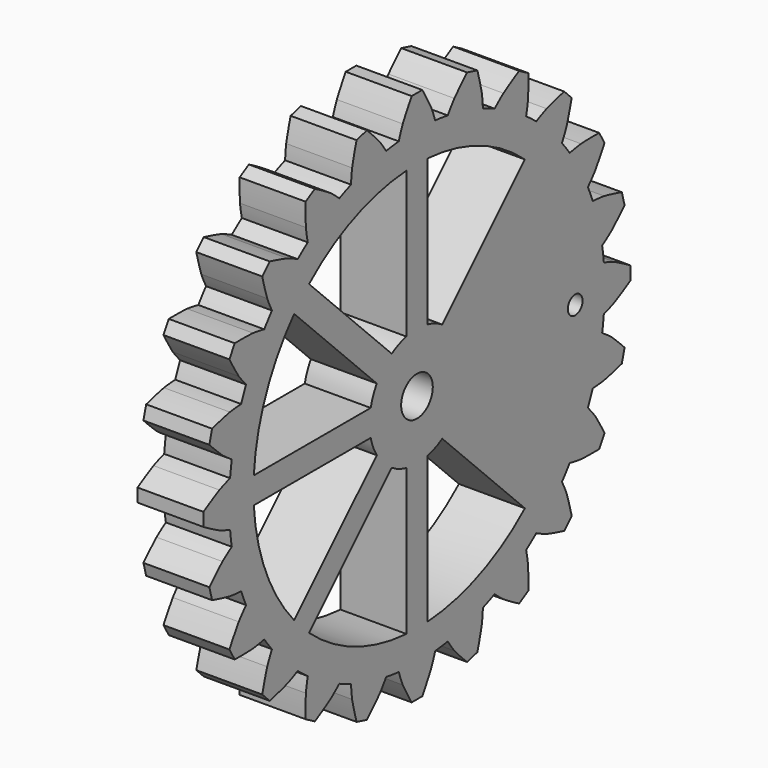
from build123d import *

# Parameters (mm, degrees)
F0_R     = 3
F0_R_2   = 1.4
F1_DEPTH = 10


with BuildPart() as f1:
    # F0 (on Right) → F1 (new body)
    with BuildSketch(Plane.YZ):
        with BuildLine():
            ThreePointArc((-2.697084, 37.459986), (-3.094881, 36.452951), (-3.4485, 35.429568))
            ThreePointArc((-3.4485, 35.429568), (-4.646341, 35.292463), (-5.838852, 35.114872))
            ThreePointArc((-5.838852, 35.114872), (-6.445293, 36.011861), (-7.090175, 36.881625))
            ThreePointArc((-7.090175, 36.881625), (-8.27666, 38.143224), (-9.505046, 39.364064))
            Line((-9.505046, 39.364064), (-11.450421, 38.842802))
            ThreePointArc((-11.450421, 38.842802), (-11.903815, 37.171331), (-12.300541, 35.485511))
            ThreePointArc((-12.300541, 35.485511), (-12.424143, 34.409833), (-12.500842, 33.329797))
            ThreePointArc((-12.500842, 33.329797), (-13.622382, 32.88734), (-14.728295, 32.407156))
            ThreePointArc((-14.728295, 32.407156), (-15.54623, 33.116622), (-16.39425, 33.789842))
            ThreePointArc((-16.39425, 33.789842), (-17.866832, 34.701368), (-19.369339, 35.562679))
            Line((-19.369339, 35.562679), (-21.113514, 34.555679))
            ThreePointArc((-21.113514, 34.555679), (-21.11885, 32.823815), (-21.065736, 31.092757))
            ThreePointArc((-21.065736, 31.092757), (-20.906721, 30.021742), (-20.701272, 28.958656))
            ThreePointArc((-20.701272, 28.958656), (-21.670081, 28.240999), (-22.61403, 27.490945))
            ThreePointArc((-22.61403, 27.490945), (-23.587718, 27.96454), (-24.581084, 28.395337))
            ThreePointArc((-24.581084, 28.395337), (-26.23941, 28.894671), (-27.913643, 29.337756))
            Line((-27.913643, 29.337756), (-29.337756, 27.913643))
            ThreePointArc((-29.337756, 27.913643), (-28.894671, 26.23941), (-28.395337, 24.581084))
            ThreePointArc((-28.395337, 24.581084), (-27.96454, 23.587718), (-27.490945, 22.61403))
            ThreePointArc((-27.490945, 22.61403), (-28.240999, 21.670081), (-28.958656, 20.701272))
            ThreePointArc((-28.958656, 20.701272), (-30.021742, 20.906721), (-31.092757, 21.065736))
            ThreePointArc((-31.092757, 21.065736), (-32.823815, 21.11885), (-34.555679, 21.113514))
            Line((-34.555679, 21.113514), (-35.562679, 19.369339))
            ThreePointArc((-35.562679, 19.369339), (-34.701368, 17.866832), (-33.789842, 16.39425))
            ThreePointArc((-33.789842, 16.39425), (-33.116622, 15.54623), (-32.407156, 14.728295))
            ThreePointArc((-32.407156, 14.728295), (-32.88734, 13.622382), (-33.329797, 12.500842))
            ThreePointArc((-33.329797, 12.500842), (-34.409833, 12.424143), (-35.485511, 12.300541))
            ThreePointArc((-35.485511, 12.300541), (-37.171331, 11.903815), (-38.842802, 11.450421))
            Line((-38.842802, 11.450421), (-39.364064, 9.505046))
            ThreePointArc((-39.364064, 9.505046), (-38.143224, 8.27666), (-36.881625, 7.090175))
            ThreePointArc((-36.881625, 7.090175), (-36.011861, 6.445293), (-35.114872, 5.838852))
            ThreePointArc((-35.114872, 5.838852), (-35.292463, 4.646341), (-35.429568, 3.4485))
            ThreePointArc((-35.429568, 3.4485), (-36.452951, 3.094881), (-37.459986, 2.697084))
            ThreePointArc((-37.459986, 2.697084), (-38.985683, 1.877553), (-40.482852, 1.007))
            Line((-40.482852, 1.007), (-40.482852, -1.007))
            ThreePointArc((-40.482852, -1.007), (-38.985683, -1.877553), (-37.459986, -2.697084))
            ThreePointArc((-37.459986, -2.697084), (-36.452951, -3.094881), (-35.429568, -3.4485))
            ThreePointArc((-35.429568, -3.4485), (-35.292463, -4.646341), (-35.114872, -5.838852))
            ThreePointArc((-35.114872, -5.838852), (-36.011861, -6.445293), (-36.881625, -7.090175))
            ThreePointArc((-36.881625, -7.090175), (-38.143224, -8.27666), (-39.364064, -9.505046))
            Line((-39.364064, -9.505046), (-38.842802, -11.450421))
            ThreePointArc((-38.842802, -11.450421), (-37.171331, -11.903815), (-35.485511, -12.300541))
            ThreePointArc((-35.485511, -12.300541), (-34.409833, -12.424143), (-33.329797, -12.500842))
            ThreePointArc((-33.329797, -12.500842), (-32.88734, -13.622382), (-32.407156, -14.728295))
            ThreePointArc((-32.407156, -14.728295), (-33.116622, -15.54623), (-33.789842, -16.39425))
            ThreePointArc((-33.789842, -16.39425), (-34.701368, -17.866832), (-35.562679, -19.369339))
            Line((-35.562679, -19.369339), (-34.555679, -21.113514))
            ThreePointArc((-34.555679, -21.113514), (-32.823815, -21.11885), (-31.092757, -21.065736))
            ThreePointArc((-31.092757, -21.065736), (-30.021742, -20.906721), (-28.958656, -20.701272))
            ThreePointArc((-28.958656, -20.701272), (-28.240999, -21.670081), (-27.490945, -22.61403))
            ThreePointArc((-27.490945, -22.61403), (-27.96454, -23.587718), (-28.395337, -24.581084))
            ThreePointArc((-28.395337, -24.581084), (-28.894671, -26.23941), (-29.337756, -27.913643))
            Line((-29.337756, -27.913643), (-27.913643, -29.337756))
            ThreePointArc((-27.913643, -29.337756), (-26.23941, -28.894671), (-24.581084, -28.395337))
            ThreePointArc((-24.581084, -28.395337), (-23.587718, -27.96454), (-22.61403, -27.490945))
            ThreePointArc((-22.61403, -27.490945), (-21.670081, -28.240999), (-20.701272, -28.958656))
            ThreePointArc((-20.701272, -28.958656), (-20.906721, -30.021742), (-21.065736, -31.092757))
            ThreePointArc((-21.065736, -31.092757), (-21.11885, -32.823815), (-21.113514, -34.555679))
            Line((-21.113514, -34.555679), (-19.369339, -35.562679))
            ThreePointArc((-19.369339, -35.562679), (-17.866832, -34.701368), (-16.39425, -33.789842))
            ThreePointArc((-16.39425, -33.789842), (-15.54623, -33.116622), (-14.728295, -32.407156))
            ThreePointArc((-14.728295, -32.407156), (-13.622382, -32.88734), (-12.500842, -33.329797))
            ThreePointArc((-12.500842, -33.329797), (-12.424143, -34.409833), (-12.300541, -35.485511))
            ThreePointArc((-12.300541, -35.485511), (-11.903815, -37.171331), (-11.450421, -38.842802))
            Line((-11.450421, -38.842802), (-9.505046, -39.364064))
            ThreePointArc((-9.505046, -39.364064), (-8.27666, -38.143224), (-7.090175, -36.881625))
            ThreePointArc((-7.090175, -36.881625), (-6.445293, -36.011861), (-5.838852, -35.114872))
            ThreePointArc((-5.838852, -35.114872), (-4.646341, -35.292463), (-3.4485, -35.429568))
            ThreePointArc((-3.4485, -35.429568), (-3.094881, -36.452951), (-2.697084, -37.459986))
            ThreePointArc((-2.697084, -37.459986), (-1.877553, -38.985683), (-1.007, -40.482852))
            Line((-1.007, -40.482852), (1.007, -40.482852))
            ThreePointArc((1.007, -40.482852), (1.877553, -38.985683), (2.697084, -37.459986))
            ThreePointArc((2.697084, -37.459986), (3.094881, -36.452951), (3.4485, -35.429568))
            ThreePointArc((3.4485, -35.429568), (4.646341, -35.292463), (5.838852, -35.114872))
            ThreePointArc((5.838852, -35.114872), (6.445293, -36.011861), (7.090175, -36.881625))
            ThreePointArc((7.090175, -36.881625), (8.27666, -38.143224), (9.505046, -39.364064))
            Line((9.505046, -39.364064), (11.450421, -38.842802))
            ThreePointArc((11.450421, -38.842802), (11.903815, -37.171331), (12.300541, -35.485511))
            ThreePointArc((12.300541, -35.485511), (12.424143, -34.409833), (12.500842, -33.329797))
            ThreePointArc((12.500842, -33.329797), (13.622382, -32.88734), (14.728295, -32.407156))
            ThreePointArc((14.728295, -32.407156), (15.54623, -33.116622), (16.39425, -33.789842))
            ThreePointArc((16.39425, -33.789842), (17.866832, -34.701368), (19.369339, -35.562679))
            Line((19.369339, -35.562679), (21.113514, -34.555679))
            ThreePointArc((21.113514, -34.555679), (21.11885, -32.823815), (21.065736, -31.092757))
            ThreePointArc((21.065736, -31.092757), (20.906721, -30.021742), (20.701272, -28.958656))
            ThreePointArc((20.701272, -28.958656), (21.670081, -28.240999), (22.61403, -27.490945))
            ThreePointArc((22.61403, -27.490945), (23.587718, -27.96454), (24.581084, -28.395337))
            ThreePointArc((24.581084, -28.395337), (26.23941, -28.894671), (27.913643, -29.337756))
            Line((27.913643, -29.337756), (29.337756, -27.913643))
            ThreePointArc((29.337756, -27.913643), (28.894671, -26.23941), (28.395337, -24.581084))
            ThreePointArc((28.395337, -24.581084), (27.96454, -23.587718), (27.490945, -22.61403))
            ThreePointArc((27.490945, -22.61403), (28.240999, -21.670081), (28.958656, -20.701272))
            ThreePointArc((28.958656, -20.701272), (30.021742, -20.906721), (31.092757, -21.065736))
            ThreePointArc((31.092757, -21.065736), (32.823815, -21.11885), (34.555679, -21.113514))
            Line((34.555679, -21.113514), (35.562679, -19.369339))
            ThreePointArc((35.562679, -19.369339), (34.701368, -17.866832), (33.789842, -16.39425))
            ThreePointArc((33.789842, -16.39425), (33.116622, -15.54623), (32.407156, -14.728295))
            ThreePointArc((32.407156, -14.728295), (32.88734, -13.622382), (33.329797, -12.500842))
            ThreePointArc((33.329797, -12.500842), (34.409833, -12.424143), (35.485511, -12.300541))
            ThreePointArc((35.485511, -12.300541), (37.171331, -11.903815), (38.842802, -11.450421))
            Line((38.842802, -11.450421), (39.364064, -9.505046))
            ThreePointArc((39.364064, -9.505046), (38.143224, -8.27666), (36.881625, -7.090175))
            ThreePointArc((36.881625, -7.090175), (36.011861, -6.445293), (35.114872, -5.838852))
            ThreePointArc((35.114872, -5.838852), (35.292463, -4.646341), (35.429568, -3.4485))
            ThreePointArc((35.429568, -3.4485), (36.452951, -3.094881), (37.459986, -2.697084))
            ThreePointArc((37.459986, -2.697084), (38.985683, -1.877553), (40.482852, -1.007))
            Line((40.482852, -1.007), (40.482852, 1.007))
            ThreePointArc((40.482852, 1.007), (38.985683, 1.877553), (37.459986, 2.697084))
            ThreePointArc((37.459986, 2.697084), (36.452951, 3.094881), (35.429568, 3.4485))
            ThreePointArc((35.429568, 3.4485), (35.292463, 4.646341), (35.114872, 5.838852))
            ThreePointArc((35.114872, 5.838852), (36.011861, 6.445293), (36.881625, 7.090175))
            ThreePointArc((36.881625, 7.090175), (38.143224, 8.27666), (39.364064, 9.505046))
            Line((39.364064, 9.505046), (38.842802, 11.450421))
            ThreePointArc((38.842802, 11.450421), (37.171331, 11.903815), (35.485511, 12.300541))
            ThreePointArc((35.485511, 12.300541), (34.409833, 12.424143), (33.329797, 12.500842))
            ThreePointArc((33.329797, 12.500842), (32.88734, 13.622382), (32.407156, 14.728295))
            ThreePointArc((32.407156, 14.728295), (33.116622, 15.54623), (33.789842, 16.39425))
            ThreePointArc((33.789842, 16.39425), (34.701368, 17.866832), (35.562679, 19.369339))
            Line((35.562679, 19.369339), (34.555679, 21.113514))
            ThreePointArc((34.555679, 21.113514), (32.823815, 21.11885), (31.092757, 21.065736))
            ThreePointArc((31.092757, 21.065736), (30.021742, 20.906721), (28.958656, 20.701272))
            ThreePointArc((28.958656, 20.701272), (28.240999, 21.670081), (27.490945, 22.61403))
            ThreePointArc((27.490945, 22.61403), (27.96454, 23.587718), (28.395337, 24.581084))
            ThreePointArc((28.395337, 24.581084), (28.894671, 26.23941), (29.337756, 27.913643))
            Line((29.337756, 27.913643), (27.913643, 29.337756))
            ThreePointArc((27.913643, 29.337756), (26.23941, 28.894671), (24.581084, 28.395337))
            ThreePointArc((24.581084, 28.395337), (23.587718, 27.96454), (22.61403, 27.490945))
            ThreePointArc((22.61403, 27.490945), (21.670081, 28.240999), (20.701272, 28.958656))
            ThreePointArc((20.701272, 28.958656), (20.906721, 30.021742), (21.065736, 31.092757))
            ThreePointArc((21.065736, 31.092757), (21.11885, 32.823815), (21.113514, 34.555679))
            Line((21.113514, 34.555679), (19.369339, 35.562679))
            ThreePointArc((19.369339, 35.562679), (17.866832, 34.701368), (16.39425, 33.789842))
            ThreePointArc((16.39425, 33.789842), (15.54623, 33.116622), (14.728295, 32.407156))
            ThreePointArc((14.728295, 32.407156), (13.622382, 32.88734), (12.500842, 33.329797))
            ThreePointArc((12.500842, 33.329797), (12.424143, 34.409833), (12.300541, 35.485511))
            ThreePointArc((12.300541, 35.485511), (11.903815, 37.171331), (11.450421, 38.842802))
            Line((11.450421, 38.842802), (9.505046, 39.364064))
            ThreePointArc((9.505046, 39.364064), (8.27666, 38.143224), (7.090175, 36.881625))
            ThreePointArc((7.090175, 36.881625), (6.445293, 36.011861), (5.838852, 35.114872))
            ThreePointArc((5.838852, 35.114872), (4.646341, 35.292463), (3.4485, 35.429568))
            ThreePointArc((3.4485, 35.429568), (3.094881, 36.452951), (2.697084, 37.459986))
            ThreePointArc((2.697084, 37.459986), (1.877553, 38.985683), (1.007, 40.482852))
            Line((1.007, 40.482852), (-1.007, 40.482852))
            ThreePointArc((-1.007, 40.482852), (-1.877553, 38.985683), (-2.697084, 37.459986))
        make_face()
        with BuildLine():
            Line((-20.460429, -23.288856), (-4.790623, -7.61905))
            ThreePointArc((-4.790623, -7.61905), (-3.444151, -8.314916), (-2, -8.774964))
            Line((-2, -8.774964), (-2, -30.935417))
            ThreePointArc((-2, -30.935417), (-11.863186, -28.640266), (-20.460429, -23.288856))
        make_face(mode=Mode.SUBTRACT)
        with BuildLine():
            Line((-30.935417, -2), (-8.774964, -2))
            ThreePointArc((-8.774964, -2), (-8.314916, -3.444151), (-7.61905, -4.790623))
            Line((-7.61905, -4.790623), (-23.288856, -20.460429))
            ThreePointArc((-23.288856, -20.460429), (-28.640266, -11.863186), (-30.935417, -2))
        make_face(mode=Mode.SUBTRACT)
        with BuildLine():
            Line((2, -30.935417), (2, -8.774964))
            ThreePointArc((2, -8.774964), (3.444151, -8.314916), (4.790623, -7.61905))
            Line((4.790623, -7.61905), (20.460429, -23.288856))
            ThreePointArc((20.460429, -23.288856), (11.863186, -28.640266), (2, -30.935417))
        make_face(mode=Mode.SUBTRACT)
        with BuildLine():
            Line((-23.288856, 20.460429), (-7.61905, 4.790623))
            ThreePointArc((-7.61905, 4.790623), (-8.314916, 3.444151), (-8.774964, 2))
            Line((-8.774964, 2), (-30.935417, 2))
            ThreePointArc((-30.935417, 2), (-28.640266, 11.863186), (-23.288856, 20.460429))
        make_face(mode=Mode.SUBTRACT)
        with BuildLine():
            Line((-2, 30.935417), (-2, 8.774964))
            ThreePointArc((-2, 8.774964), (-3.444151, 8.314916), (-4.790623, 7.61905))
            Line((-4.790623, 7.61905), (-20.460429, 23.288856))
            ThreePointArc((-20.460429, 23.288856), (-11.863186, 28.640266), (-2, 30.935417))
        make_face(mode=Mode.SUBTRACT)
        Circle(F0_R, mode=Mode.SUBTRACT)
        with BuildLine():
            ThreePointArc((4.790623, 7.61905), (3.444151, 8.314916), (2, 8.774964))
            Line((2, 8.774964), (2, 30.935417))
            ThreePointArc((2, 30.935417), (11.863186, 28.640266), (20.460429, 23.288856))
            Line((20.460429, 23.288856), (4.790623, 7.61905))
        make_face(mode=Mode.SUBTRACT)
        with Locations((30, 0)):
            Circle(F0_R_2, mode=Mode.SUBTRACT)
    extrude(amount=F1_DEPTH)


solid = f1.part
